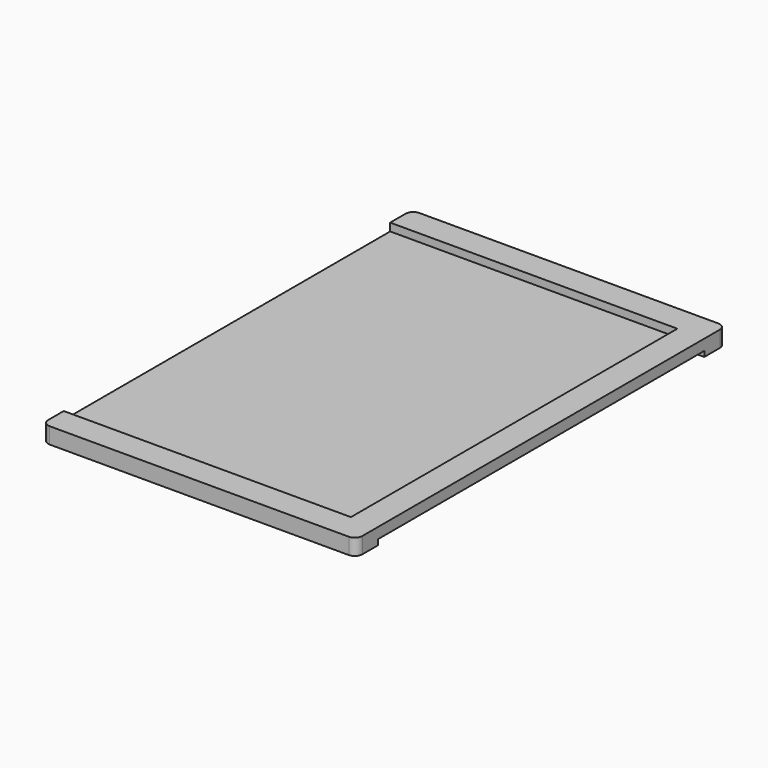
from build123d import *

# Parameters (mm, degrees)
F1_DEPTH = 3.429
F3_DEPTH = 1.651
F5_DEPTH = 1.143


with BuildPart() as f1:
    # F0 (on Top) → F1 (new body)
    with BuildSketch(Plane.XY):
        with BuildLine():
            Line((-31.75, -49.022), (31.75, -49.022))
            ThreePointArc((31.75, -49.022), (32.872532, -48.557032), (33.3375, -47.4345))
            Line((33.3375, -47.4345), (33.3375, 47.4345))
            ThreePointArc((33.3375, 47.4345), (32.872532, 48.557032), (31.75, 49.022))
            Line((31.75, 49.022), (-31.75, 49.022))
            ThreePointArc((-31.75, 49.022), (-32.872532, 48.557032), (-33.3375, 47.4345))
            Line((-33.3375, 47.4345), (-33.3375, -47.4345))
            ThreePointArc((-33.3375, -47.4345), (-32.872532, -48.557032), (-31.75, -49.022))
        make_face()
    extrude(amount=F1_DEPTH)

    # F2 (on face) → F3 (cut)
    with BuildSketch(Plane.XY.offset(3.429)):
        Polygon((-27.6225, -43.307), (27.6225, -43.307), (27.6225, 43.307), (-27.6225, 43.307), (-33.3375, 43.307), (-33.3375, -43.307), align=None)
    extrude(amount=-F3_DEPTH, mode=Mode.SUBTRACT)

    # F4 (on face) → F5 (cut)
    with BuildSketch(Plane(origin=(0, 0, 0), x_dir=(1, 0, 0), z_dir=(0, 0, -1))):
        Polygon((-27.6225, -43.307), (27.6225, -43.307), (33.3375, -43.307), (33.3375, 43.307), (27.6225, 43.307), (-27.6225, 43.307), align=None)
    extrude(amount=-F5_DEPTH, mode=Mode.SUBTRACT)


solid = f1.part
